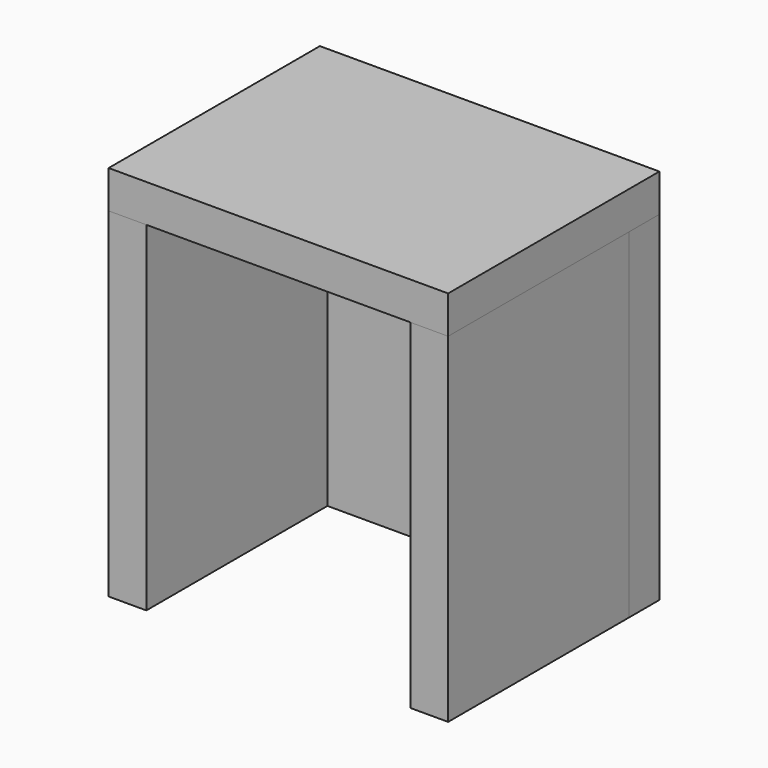
from build123d import *

# Parameters (mm, degrees)
F0_W     = 12.7
F0_H     = 76.2
F1_DEPTH = 57.15
F2_DEPTH = 57.15
F3_W     = 114.3
F3_H     = 88.9
F4_DEPTH = 12.7


with BuildPart() as f1:
    # F0 (on Top) → F1 (new body, symmetric)
    with BuildSketch(Plane.XY):
        with Locations((-50.8, 0)):
            Rectangle(F0_W, F0_H)
        with Locations((50.8, 0)):
            Rectangle(F0_W, F0_H)
    extrude(amount=F1_DEPTH, both=True)


with BuildPart() as f2:
    # F0 (on Top) → F2 (new body, symmetric)
    with BuildSketch(Plane.XY):
        Polygon((-57.15, 38.1), (-44.45, 38.1), (44.45, 38.1), (57.15, 38.1), (57.15, 50.8), (-57.15, 50.8), align=None)
    extrude(amount=F2_DEPTH, both=True)


with BuildPart() as f4:
    # F3 (on face) → F4 (new body)
    with BuildSketch(Plane.XY.offset(57.15)):
        with Locations((0, 6.35)):
            Rectangle(F3_W, F3_H)
    extrude(amount=F4_DEPTH)


solid = Compound([f1.part, f2.part, f4.part])
